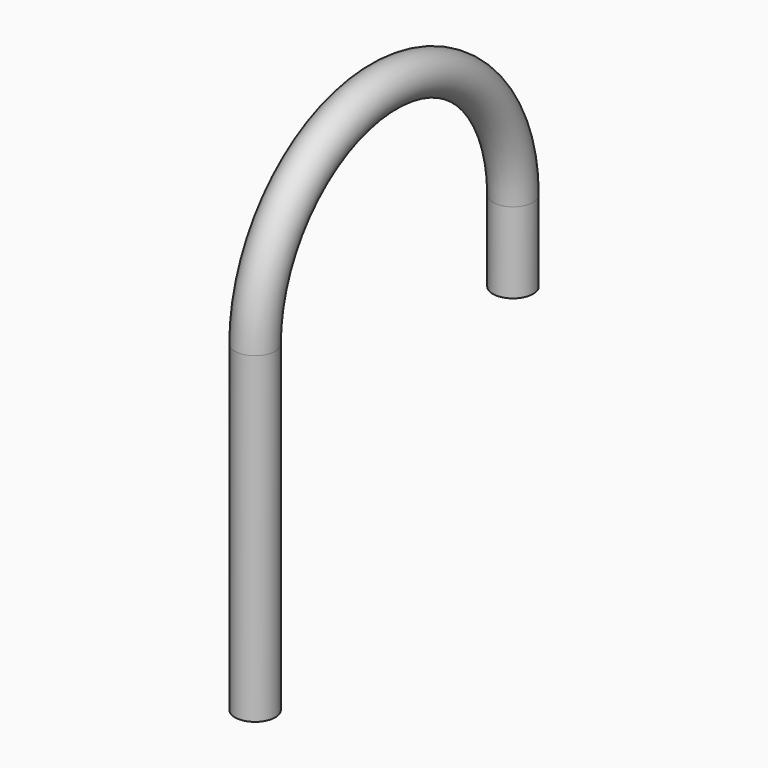
from build123d import *

# Parameters (mm, degrees)
F1_R   = 6.35
F1_R_2 = 4.587099


with BuildPart() as f2:
    # F2: sweep along a path in F0
    with BuildLine(Plane.YZ) as f2_path:
        Line((0, 0), (0, 25.4))
        ThreePointArc((0, 25.4), (-50.8, 76.2), (-101.6, 25.4))
        Line((-101.6, 25.4), (-101.6, -76.2))
    # F1 (on Top) → F2 (sweep)
    with BuildSketch(Plane.XY):
        Circle(F1_R)
        Circle(F1_R_2, mode=Mode.SUBTRACT)
    sweep(path=f2_path.line)


solid = f2.part
